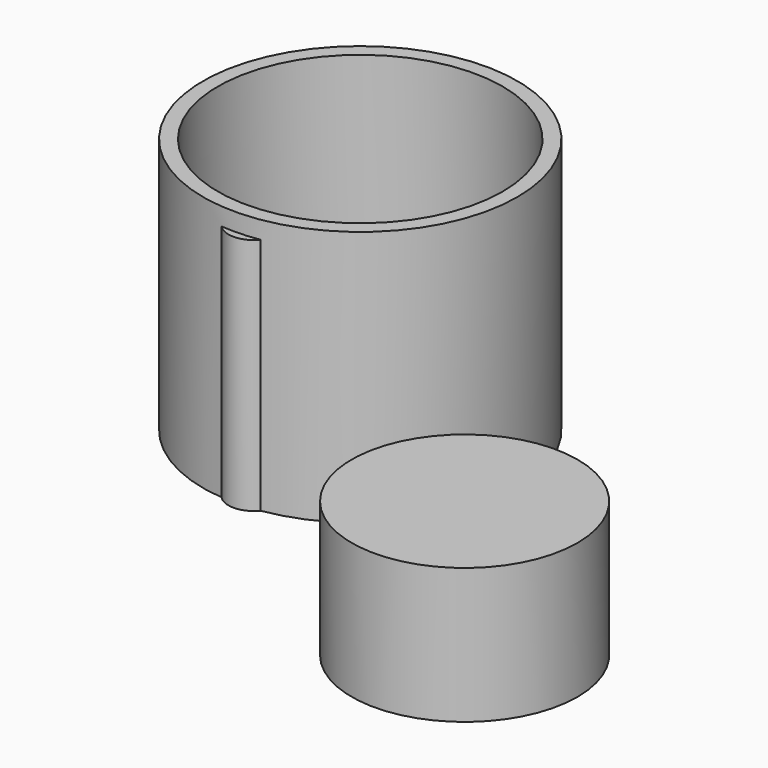
from build123d import *

# Parameters (mm, degrees)
F0_R      = 29.451456
F1_DEPTH  = 48.006
F2_R      = 26.683746
F3_DEPTH  = 43.18
F5_R      = 4.77229
F6_DEPTH  = 44.704
F4_R      = 21.661849
F7_DEPTH  = 25.4
F8_R      = 56.122028
F9_DEPTH  = 44.45
F10_R     = 21.161819
F11_DEPTH = 25.4


with BuildPart() as f1:
    # F0 (on Top) → F1 (new body)
    with BuildSketch(Plane.XY):
        with Locations((-14.304114, 10.117544)):
            Circle(F0_R)
    extrude(amount=F1_DEPTH)

    # F2 (on face) → F3 (cut)
    with BuildSketch(Plane.XY.offset(48.006)):
        with Locations((-14.304114, 10.117544)):
            Circle(F2_R)
    extrude(amount=-F3_DEPTH, mode=Mode.SUBTRACT)

    # F5 (on Top) → F6 (join)
    with BuildSketch(Plane.XY):
        with Locations((-13.373765, -15.932225)):
            Circle(F5_R)
    extrude(amount=F6_DEPTH)

    # F4 (on face) → F7 (join)
    with BuildSketch(Plane(origin=(0, 0, 0), x_dir=(1, 0, 0), z_dir=(0, 0, -1))):
        with Locations((-14.304114, -10.117544)):
            Circle(F4_R)
    extrude(amount=F7_DEPTH)

    # F8 (on Top) → F9 (cut)
    with BuildSketch(Plane.XY):
        with Locations((-14.900141, 8.263944)):
            Circle(F8_R)
    extrude(amount=-F9_DEPTH, mode=Mode.SUBTRACT)


with BuildPart() as f11:
    # F10 (on Top) → F11 (new body)
    with BuildSketch(Plane.XY):
        with Locations((42.196199, -36.060844)):
            Circle(F10_R)
    extrude(amount=F11_DEPTH)


solid = Compound([f1.part, f11.part])
